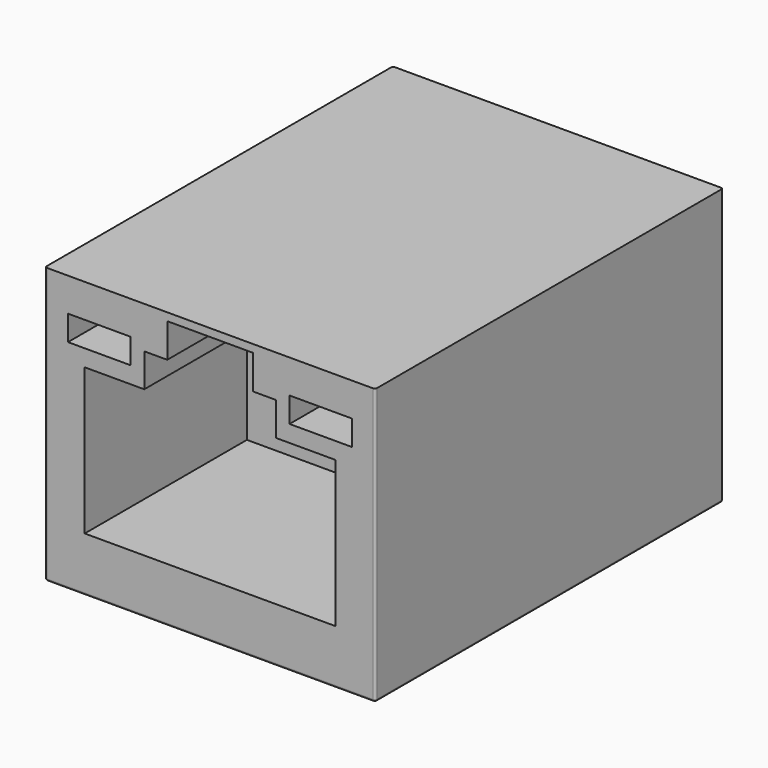
from build123d import *

# Parameters (mm, degrees)
BOX038_W               = 4.1
BOX038_H               = 5
BOX038_DEPTH           = 2
BOX038_PLACEMENT_ANGLE = 20
BOX037_W               = 2.85
BOX037_H               = 2.4
BOX037_DEPTH           = 1.5
BOX036_W               = 12
BOX036_H               = 1
BOX036_DEPTH           = 5
SKETCH035_W            = 3
SKETCH035_H            = 1.2
EXTRUDE005_DEPTH       = 10.8
BOX007_W               = 15.8
BOX007_H               = 20.8
BOX007_DEPTH           = 13.2
FILLET008_R            = 0.1


with BuildPart() as cube017:
    # Box038 → Box038 (new body)
    with BuildSketch(Plane.XY):
        with Locations((2.05, 2.5)):
            Rectangle(BOX038_W, BOX038_H)
    extrude(amount=BOX038_DEPTH)


with BuildPart() as cube017_1:
    # Box038 placement: moved
    add(cube017.part.moved(Location((-2.05, -1, 11.2))).rotate(Axis((-2.05, -1, 11.2), (-1, 0, 0)), BOX038_PLACEMENT_ANGLE))


with BuildPart() as cube016:
    # Box037 → Box037 (new body)
    with BuildSketch(Plane(origin=(3.15, 8.4, 8.2), x_dir=(1, 0, 0), z_dir=(0, 0, 1))):
        with Locations((1.425, 1.2)):
            Rectangle(BOX037_W, BOX037_H)
    extrude(amount=BOX037_DEPTH)


with BuildPart() as cube041:
    # Clone base: copy of Cube016
    add(cube016.part)


with BuildPart() as cube041_1:
    # Clone placement: moved
    add(cube041.part.moved(Location((-9.15, 0, 0))))


with BuildPart() as fusion024:
    # Box036 → Box036 (new body)
    with BuildSketch(Plane(origin=(-6, 9.8, 2.7), x_dir=(1, 0, 0), z_dir=(0, 0, 1))):
        with Locations((6, 0.5)):
            Rectangle(BOX036_W, BOX036_H)
    extrude(amount=BOX036_DEPTH)

    # Fusion024: union Cube016, Cube041
    add(cube016.part)
    add(cube041_1.part)


with BuildPart() as fusion025:
    # Sketch035 → Extrude005 (new body)
    with BuildSketch(Plane.XZ):
        Polygon((-6, 9.7), (-6, 2.7), (6, 2.7), (6, 9.7), (3.15, 9.7), (3.15, 11.3), (2.05, 11.3), (2.05, 12.5), (-2.05, 12.5), (-2.05, 11.3), (-3.15, 11.3), (-3.15, 9.7), align=None)
        with Locations((-5.3, 11.1)):
            Rectangle(SKETCH035_W, SKETCH035_H)
        with Locations((5.3, 11.1)):
            Rectangle(SKETCH035_W, SKETCH035_H)
    extrude(amount=-EXTRUDE005_DEPTH)

    # Cut001: cut Fusion024
    add(fusion024.part, mode=Mode.SUBTRACT)

    # Fusion025: union Cube017
    add(cube017_1.part)


with BuildPart() as fusion025_1:
    # Fusion025 placement: moved
    add(fusion025.part.moved(Location((0, 0.1, 0.1))))


with BuildPart() as body009:
    # Box007 → Box007 (new body)
    with BuildSketch(Plane(origin=(-7.9, 0.2, 0.2), x_dir=(1, 0, 0), z_dir=(0, 0, 1))):
        with Locations((7.9, 10.4)):
            Rectangle(BOX007_W, BOX007_H)
    extrude(amount=BOX007_DEPTH)

    # Fillet008
    fillet008_edges = [body009.edges().sort_by_distance(p)[0] for p in [
        (-7.9, 0.2, 6.8),
        (-7.9, 21, 6.8),
        (-7.9, 10.6, 0.2),
        (7.9, 0.2, 6.8),
        (7.9, 21, 6.8),
        (7.9, 10.6, 0.2),
        (0, 0.2, 0.2),
        (0, 21, 0.2),
    ]]
    fillet(fillet008_edges, radius=FILLET008_R)

    # Cut008: cut Fusion025
    add(fusion025_1.part, mode=Mode.SUBTRACT)


solid = body009.part
